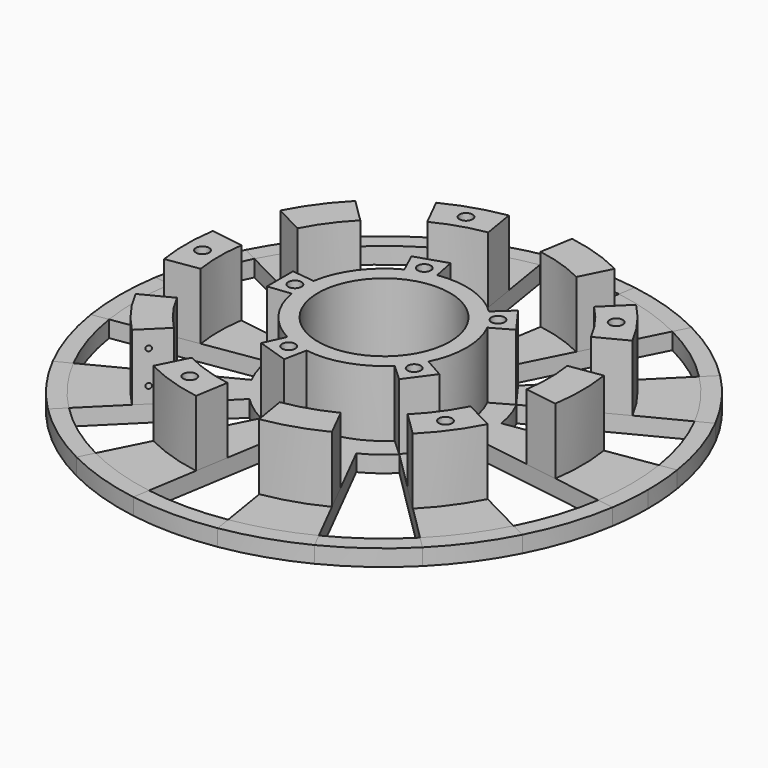
from build123d import *

# Parameters (mm, degrees)
SKETCH012_R           = 105.283237
SKETCH012_R_2         = 80
PAD006_DEPTH          = 10
PAD006_DEPTH_BACK     = 10
SKETCH_R              = 100
SKETCH_R_2            = 20
PAD_DEPTH             = 5
POCKET_DEPTH          = 570.774806
POLARPATTERN_COUNT    = 10
SKETCH002_R           = 100
SKETCH002_R_2         = 91.942135
PAD001_DEPTH          = 2
PAD001_DEPTH_BACK     = -5
SKETCH006_R           = 32
SKETCH006_R_2         = 20
PAD003_DEPTH          = 5
SKETCH007_R           = 25
SKETCH007_R_2         = 20
PAD004_DEPTH          = 20
PAD005_DEPTH          = 20
POLARPATTERN002_COUNT = 5
SKETCH004_R           = 60
SKETCH004_R_2         = 50
PAD002_DEPTH          = 20
POCKET001_DEPTH       = 20
POLARPATTERN001_COUNT = 10
SKETCH009_R           = 2
POCKET002_DEPTH       = 592.891835
POLARPATTERN003_COUNT = 5
POCKET003_DEPTH       = 2
POLARPATTERN004_COUNT = 5
SKETCH011_R           = 0.8
POCKET004_DEPTH       = 23
LINEARPATTERN_COUNT   = 2
LINEARPATTERN_PITCH   = 10
FILLET_R              = 1
SKETCH013_R           = 80
SKETCH013_R_2         = 75
PAD007_DEPTH          = 5


with BuildPart() as pad006:
    # Sketch012 → Pad006 (new body, two sides)
    with BuildSketch(Plane.XY) as pad006_sk:
        Circle(SKETCH012_R)
        Circle(SKETCH012_R_2, mode=Mode.SUBTRACT)
    extrude(amount=PAD006_DEPTH)
    extrude(pad006_sk.sketch, amount=-PAD006_DEPTH_BACK)


with BuildPart() as polarpattern002:
    # Sketch → Pad (new body)
    with BuildSketch(Plane.XY):
        Circle(SKETCH_R)
        Circle(SKETCH_R_2, mode=Mode.SUBTRACT)
    extrude(amount=PAD_DEPTH)

    # Sketch001 → Pocket (cut, through all)
    with BuildSketch(Plane.XY.offset(5)):
        Polygon((-15, 92.600609), (15, 92.600609), (5, 30.949027), (-5, 30.949027), align=None)
    pocket = extrude(amount=-POCKET_DEPTH, mode=Mode.SUBTRACT)

    # PolarPattern: Pocket ×10 about axis
    polarpattern_axis = Axis((0, 0, 5), (0, 0, 1))
    for i in range(1, POLARPATTERN_COUNT):
        add(pocket.rotate(polarpattern_axis, i * 360 / POLARPATTERN_COUNT), mode=Mode.SUBTRACT)

    # Sketch002 → Pad001 (new body, two sides)
    with BuildSketch(Plane.XY.offset(5)) as pad001_sk:
        Circle(SKETCH002_R)
        Circle(SKETCH002_R_2, mode=Mode.SUBTRACT)
    extrude(amount=-PAD001_DEPTH)
    extrude(pad001_sk.sketch, amount=-PAD001_DEPTH_BACK)

    # Sketch006 → Pad003 (new body)
    with BuildSketch(Plane.XY.offset(5)):
        Circle(SKETCH006_R)
        Circle(SKETCH006_R_2, mode=Mode.SUBTRACT)
    extrude(amount=-PAD003_DEPTH)

    # Sketch007 → Pad004 (new body)
    with BuildSketch(Plane.XY.offset(5)):
        Circle(SKETCH007_R)
        Circle(SKETCH007_R_2, mode=Mode.SUBTRACT)
    extrude(amount=PAD004_DEPTH)

    # Sketch008 → Pad005 (new body)
    with BuildSketch(Plane.XY.offset(5)):
        Polygon((-31.540556, 4.944839), (-31.540556, -4.944839), (-23.570738, -4.027653), (-23.570738, 4.027653), align=None)
    pad005 = extrude(amount=PAD005_DEPTH)

    # PolarPattern002: Pad005 ×5 about axis
    polarpattern002_axis = Axis((0, 0, 5), (0, 0, 1))
    for i in range(1, POLARPATTERN002_COUNT):
        add(pad005.rotate(polarpattern002_axis, i * 360 / POLARPATTERN002_COUNT))


with BuildPart() as pad007:
    # Sketch004 → Pad002 (new body)
    with BuildSketch(Plane.XY.offset(5)):
        Circle(SKETCH004_R)
        Circle(SKETCH004_R_2, mode=Mode.SUBTRACT)
    extrude(amount=PAD002_DEPTH)

    # Sketch005 → Pocket001 (cut)
    with BuildSketch(Plane.XY.offset(25)):
        Polygon((-10.833439, 67.068352), (-7.538386, 47.120113), (7.581675, 47.120113), (10.720038, 66.055313), align=None)
    pocket001 = extrude(amount=-POCKET001_DEPTH, mode=Mode.SUBTRACT)

    # PolarPattern001: Pocket001 ×10 about axis
    polarpattern001_axis = Axis((0, 0, 25), (0, 0, 1))
    for i in range(1, POLARPATTERN001_COUNT):
        add(pocket001.rotate(polarpattern001_axis, i * 360 / POLARPATTERN001_COUNT), mode=Mode.SUBTRACT)

    # Fusion: union PolarPattern002
    add(polarpattern002.part)

    # Sketch009 → Pocket002 (cut, through all)
    with BuildSketch(Plane.XY.offset(25)):
        with Locations((-55, 0)):
            Circle(SKETCH009_R)
        with Locations((-27, 0)):
            Circle(SKETCH009_R)
    pocket002 = extrude(amount=-POCKET002_DEPTH, mode=Mode.SUBTRACT)

    # PolarPattern003: Pocket002 ×5 about axis
    polarpattern003_axis = Axis((0, 0, 25), (0, 0, 1))
    for i in range(1, POLARPATTERN003_COUNT):
        add(pocket002.rotate(polarpattern003_axis, i * 360 / POLARPATTERN003_COUNT), mode=Mode.SUBTRACT)

    # Sketch010 → Pocket003 (cut)
    with BuildSketch(Plane(origin=(0, 0, 0), x_dir=(1, 0, 0), z_dir=(0, 0, -1))):
        Polygon((-23.102886, -2.25), (-23.102886, 2.25), (-27, 4.5), (-30.897114, 2.25), (-30.897114, -2.25), (-27, -4.5), align=None)
        Polygon((-51.102886, -2.25), (-51.102886, 2.25), (-55, 4.5), (-58.897114, 2.25), (-58.897114, -2.25), (-55, -4.5), align=None)
    pocket003 = extrude(amount=-POCKET003_DEPTH, mode=Mode.SUBTRACT)

    # PolarPattern004: Pocket003 ×5 about axis
    polarpattern004_axis = Axis((0, 0, 0), (0, 0, -1))
    for i in range(1, POLARPATTERN004_COUNT):
        add(pocket003.rotate(polarpattern004_axis, i * 360 / POLARPATTERN004_COUNT), mode=Mode.SUBTRACT)

    # Sketch011 → Pocket004 (cut)
    with BuildSketch(Plane(origin=(0.157989, -0.160271, 0), x_dir=(0.712158, 0.702019, 0), z_dir=(0.702019, -0.712158, 0))):
        with Locations((-56.007513, 9.826002)):
            Circle(SKETCH011_R)
    pocket004 = extrude(amount=-POCKET004_DEPTH, mode=Mode.SUBTRACT)

    # LinearPattern: Pocket004 ×2
    with Locations(*[(0, 0, i * LINEARPATTERN_PITCH) for i in range(1, LINEARPATTERN_COUNT)]):
        add(pocket004, mode=Mode.SUBTRACT)

    # Fillet
    fillet_edges = [pad007.edges().sort_by_distance(p)[0] for p in [
        (-91.942135, 0, 7),
    ]]
    fillet(fillet_edges, radius=FILLET_R)

    # Cut: cut Pad006
    add(pad006.part, mode=Mode.SUBTRACT)

    # Sketch013 → Pad007 (new body)
    with BuildSketch(Plane.XY.offset(5)):
        Circle(SKETCH013_R)
        Circle(SKETCH013_R_2, mode=Mode.SUBTRACT)
    extrude(amount=-PAD007_DEPTH)


solid = pad007.part
